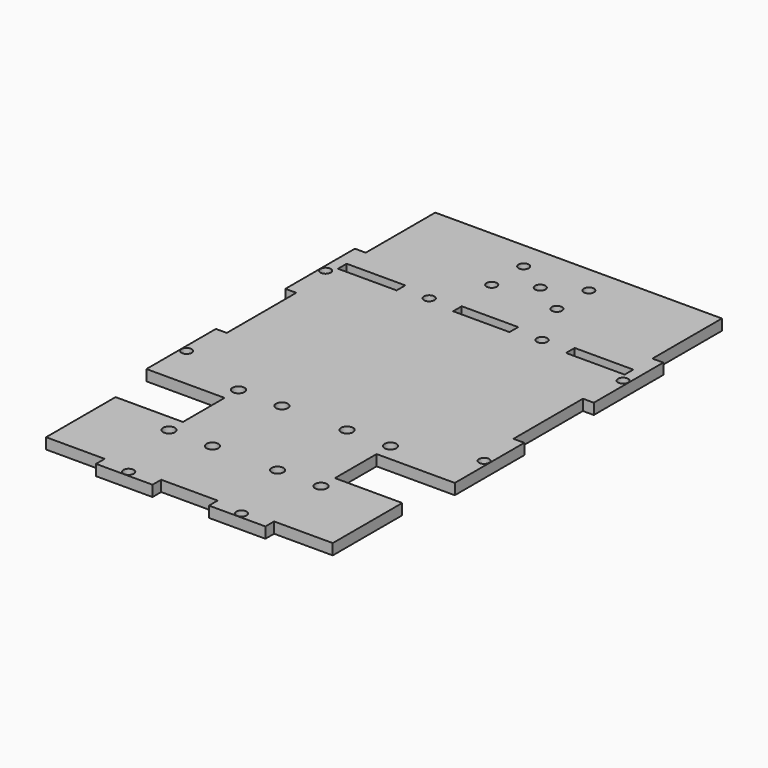
from build123d import *

# Parameters (mm, degrees)
F0_R     = 1.524
F0_R_2   = 1.75
F0_R_3   = 1.5
F0_W     = 17.145
F0_H     = 3.175
F0_W_2   = 16.51
F1_DEPTH = 3.175


with BuildPart() as f1:
    # F0 (on Top) → F1 (new body)
    with BuildSketch(Plane.XY):
        Polygon((-45.085, 36.537867), (-45.085, 11.137867), (-22.225, 11.137867), (-22.225, -4.102133), (-41.91, -4.102133), (-41.91, -29.502133), (-24.765, -29.502133), (-24.765, -32.677133), (-8.255, -32.677133), (-8.255, -29.502133), (8.255, -29.502133), (8.255, -32.677133), (24.765, -32.677133), (24.765, -29.502133), (41.91, -29.502133), (41.91, -4.102133), (22.225, -4.102133), (22.225, 11.137867), (45.085, 11.137867), (45.085, 36.537867), (41.91, 36.537867), (41.91, 61.937867), (45.085, 61.937867), (45.085, 87.337867), (41.91, 87.337867), (41.91, 112.737867), (-41.91, 112.737867), (-41.91, 87.337867), (-45.085, 87.337867), (-45.085, 61.937867), (-41.91, 61.937867), (-41.91, 36.537867), align=None)
        with Locations((-16.51, -31.089633)):
            Circle(F0_R, mode=Mode.SUBTRACT)
        with Locations((-22.225, -9.182133)):
            Circle(F0_R_2, mode=Mode.SUBTRACT)
        with Locations((-9.525, -9.182133)):
            Circle(F0_R_2, mode=Mode.SUBTRACT)
        with Locations((-43.4975, 23.837867)):
            Circle(F0_R_3, mode=Mode.SUBTRACT)
        with Locations((-22.225, 16.217867)):
            Circle(F0_R_2, mode=Mode.SUBTRACT)
        with Locations((-9.525, 16.217867)):
            Circle(F0_R_2, mode=Mode.SUBTRACT)
        with Locations((16.51, -31.089633)):
            Circle(F0_R, mode=Mode.SUBTRACT)
        with Locations((9.525, -9.182133)):
            Circle(F0_R_2, mode=Mode.SUBTRACT)
        with Locations((22.225, -9.182133)):
            Circle(F0_R_2, mode=Mode.SUBTRACT)
        with Locations((9.525, 16.217867)):
            Circle(F0_R_2, mode=Mode.SUBTRACT)
        with Locations((22.225, 16.217867)):
            Circle(F0_R_2, mode=Mode.SUBTRACT)
        with Locations((43.4975, 23.837867)):
            Circle(F0_R_3, mode=Mode.SUBTRACT)
        with Locations((-43.4975, 74.637867)):
            Circle(F0_R_3, mode=Mode.SUBTRACT)
        with Locations((-33.3375, 78.765367)):
            Rectangle(F0_W, F0_H, mode=Mode.SUBTRACT)
        with Locations((-16.51, 78.765367)):
            Circle(F0_R, mode=Mode.SUBTRACT)
        with Locations((-9.525, 92.894442)):
            Circle(F0_R_3, mode=Mode.SUBTRACT)
        with Locations((-9.525, 104.578442)):
            Circle(F0_R_3, mode=Mode.SUBTRACT)
        with Locations((43.4975, 74.637867)):
            Circle(F0_R_3, mode=Mode.SUBTRACT)
        with Locations((0, 78.765367)):
            Rectangle(F0_W_2, F0_H, mode=Mode.SUBTRACT)
        with Locations((9.525, 92.894442)):
            Circle(F0_R_3, mode=Mode.SUBTRACT)
        with Locations((16.51, 78.765367)):
            Circle(F0_R, mode=Mode.SUBTRACT)
        with Locations((0, 98.736442)):
            Circle(F0_R_3, mode=Mode.SUBTRACT)
        with Locations((9.525, 104.578442)):
            Circle(F0_R_3, mode=Mode.SUBTRACT)
        with Locations((33.3375, 78.765367)):
            Rectangle(F0_W, F0_H, mode=Mode.SUBTRACT)
    extrude(amount=F1_DEPTH)


solid = f1.part
